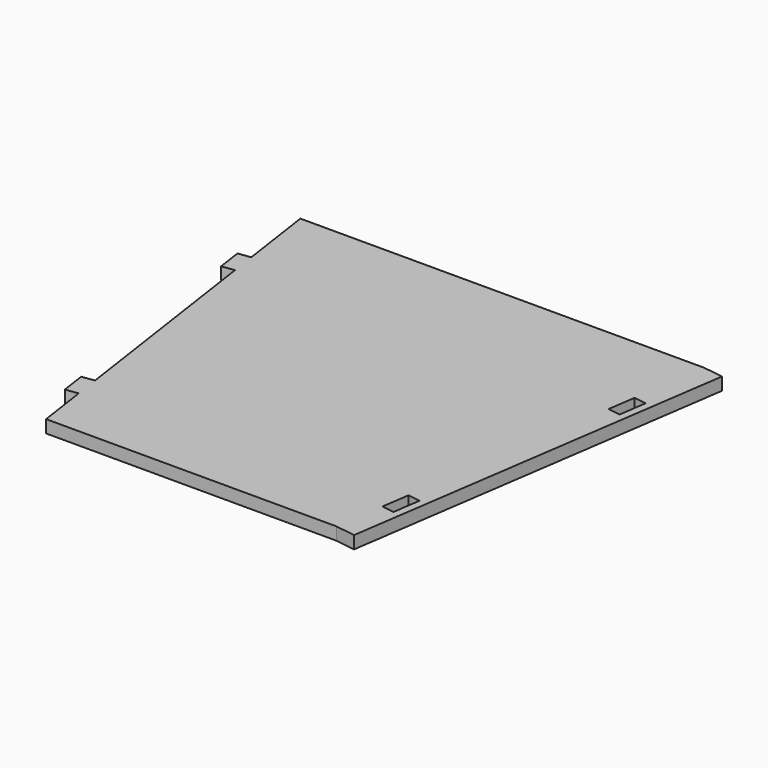
from build123d import *

# Parameters (mm, degrees)
F1_DEPTH = 5


with BuildPart() as f1:
    # F0 (on Top) → F1 (new body)
    with BuildSketch(Plane.XY):
        Polygon((80, 154.029218), (-80, 154.029218), (-75.663735, 124.344259), (-80.611228, 123.621548), (-79.165806, 113.726562), (-74.218313, 114.449272), (-61.836265, 29.684959), (-66.783759, 28.962248), (-65.338337, 19.067262), (-60.390844, 19.789973), (-57.5, 0), (57.5, 0), (65.415989, -1.156337), (87.915989, 152.872881), align=None)
        Polygon((65.266066, 18.572513), (60.318573, 19.295223), (61.908537, 30.179709), (66.85603, 29.456998), align=None, mode=Mode.SUBTRACT)
        Polygon((79.093535, 113.231812), (74.146042, 113.954523), (75.736006, 124.839008), (80.683499, 124.116297), align=None, mode=Mode.SUBTRACT)
    extrude(amount=F1_DEPTH)


solid = f1.part
